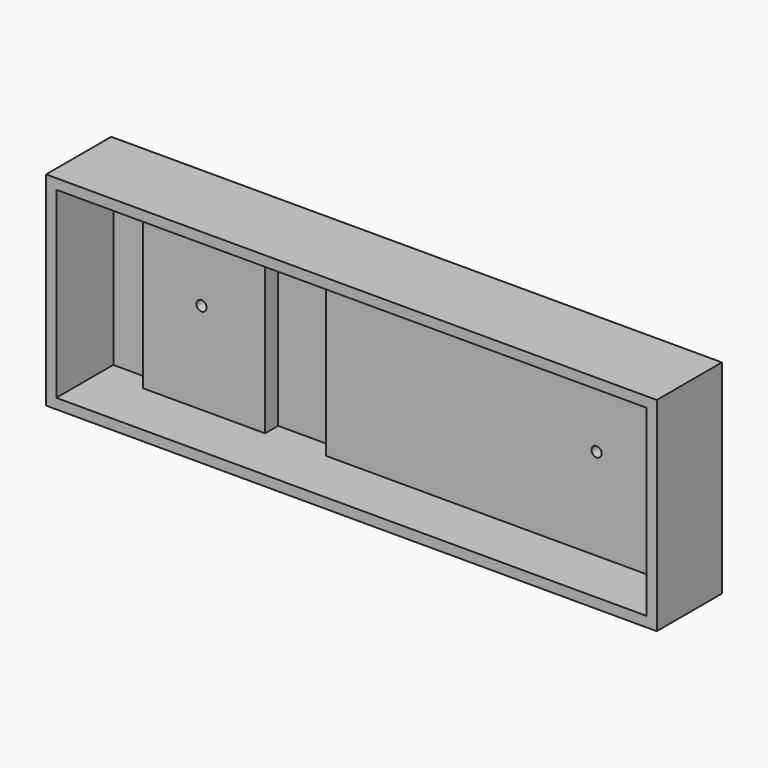
from build123d import *

# Parameters (mm, degrees)
F0_W     = 381
F0_H     = 127
F1_DEPTH = 50.8
F2_W     = 26.67
F2_H     = 114.3
F2_W_2   = 38.1
F3_DEPTH = 44.45
F4_W     = 76.2
F4_H     = 114.3
F4_W_2   = 200.66
F5_DEPTH = 34.29
F6_R     = 3.175
F7_DEPTH = 16.511


with BuildPart() as f1:
    # F0 (on Front) → F1 (new body)
    with BuildSketch(Plane.XZ):
        with Locations((190.5, 63.5)):
            Rectangle(F0_W, F0_H)
    extrude(amount=F1_DEPTH)

    # F2 (on face) → F3 (cut)
    with BuildSketch(Plane.XZ.offset(50.8)):
        with Locations((19.685, 63.5)):
            Rectangle(F2_W, F2_H)
        with Locations((128.27, 63.5)):
            Rectangle(F2_W_2, F2_H)
        with Locations((361.315, 63.5)):
            Rectangle(F2_W, F2_H)
    extrude(amount=-F3_DEPTH, mode=Mode.SUBTRACT)

    # F4 (on face) → F5 (cut)
    with BuildSketch(Plane.XZ.offset(50.8)):
        with Locations((71.12, 63.5)):
            Rectangle(F4_W, F4_H)
        with Locations((247.65, 63.5)):
            Rectangle(F4_W_2, F4_H)
    extrude(amount=-F5_DEPTH, mode=Mode.SUBTRACT)

    # F6 (on face) → F7 (cut, through all)
    with BuildSketch(Plane.XZ.offset(16.51)):
        with Locations((69.52478, 63.5)):
            Circle(F6_R)
        with Locations((316.042095, 63.5)):
            Circle(F6_R)
    extrude(amount=-F7_DEPTH, mode=Mode.SUBTRACT)


solid = f1.part
